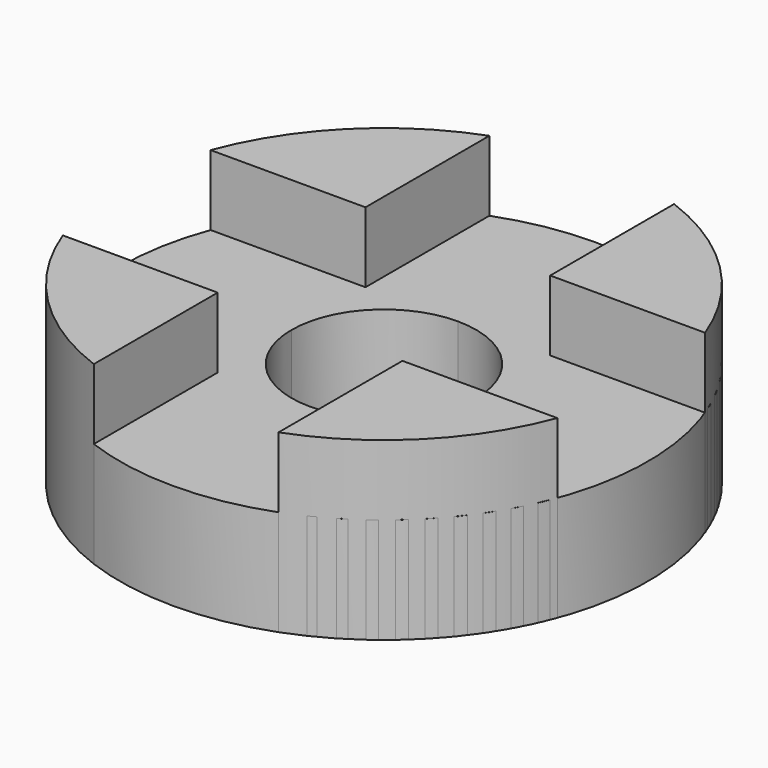
from build123d import *

# Parameters (mm, degrees)
F1_DEPTH = 6
F2_DEPTH = 10


with BuildPart() as f1:
    # F0 (on Top) → F1 (new body)
    with BuildSketch(Plane.XY):
        with BuildLine():
            Line((5.25, 5.25), (14.0512454964, 5.25))
            ThreePointArc((14.0512454964, 5.25), (10.6066017178, 10.6066017178), (5.25, 14.0512454964))
            Line((5.25, 14.0512454964), (5.25, 5.25))
        make_face()
        with BuildLine():
            Line((5.25, 5.25), (5.25, 14.0512454964))
            ThreePointArc((5.25, 14.0512454964), (0, 15), (-5.25, 14.0512454964))
            Line((-5.25, 14.0512454964), (-5.25, 5.25))
            Line((-5.25, 5.25), (1.7e-09, 5.25))
            Line((1.7e-09, 5.25), (5.25, 5.25))
        make_face()
        with BuildLine():
            Line((-5.25, 5.25), (-5.25, 14.0512454964))
            ThreePointArc((-5.25, 14.0512454964), (-10.6066017178, 10.6066017178), (-14.0512454964, 5.25))
            Line((-14.0512454964, 5.25), (-5.25, 5.25))
        make_face()
        with BuildLine():
            Line((-5.25, 5.25), (-14.0512454964, 5.25))
            ThreePointArc((-14.0512454964, 5.25), (-15, 0), (-14.0512454964, -5.25))
            Line((-14.0512454964, -5.25), (-5.25, -5.25))
            Line((-5.25, -5.25), (-5.25, -4.1e-09))
            Line((-5.25, -4.1e-09), (-5.25, 5.25))
        make_face()
        with BuildLine():
            ThreePointArc((-14.0512454964, -5.25), (-10.6066017178, -10.6066017178), (-5.25, -14.0512454964))
            Line((-5.25, -14.0512454964), (-5.25, -5.25))
            Line((-5.25, -5.25), (-14.0512454964, -5.25))
        make_face()
        with BuildLine():
            ThreePointArc((-5.25, -14.0512454964), (0, -15), (5.25, -14.0512454964))
            Line((5.25, -14.0512454964), (5.25, -5.25))
            Line((5.25, -5.25), (0, -5.25))
            Line((0, -5.25), (-5.25, -5.25))
            Line((-5.25, -5.25), (-5.25, -14.0512454964))
        make_face()
        with BuildLine():
            ThreePointArc((5.25, -14.0512454964), (10.6066017178, -10.6066017178), (14.0512454964, -5.25))
            Line((14.0512454964, -5.25), (5.25, -5.25))
            Line((5.25, -5.25), (5.25, -14.0512454964))
        make_face()
        with BuildLine():
            ThreePointArc((14.0512454964, -5.25), (14.7609058402, -2.6675192177), (15, 0))
            ThreePointArc((15, 0), (14.7609058402, 2.6675192177), (14.0512454964, 5.25))
            Line((14.0512454964, 5.25), (5.25, 5.25))
            Line((5.25, 5.25), (5.25, 0))
            Line((5.25, 0), (5.25, -5.25))
            Line((5.25, -5.25), (14.0512454964, -5.25))
        make_face()
        with BuildLine():
            Line((-5.25, 5.25), (-14.0512454964, 5.25))
            ThreePointArc((-14.0512454964, 5.25), (-15, 0), (-14.0512454964, -5.25))
            Line((-14.0512454964, -5.25), (-5.25, -5.25))
            Line((-5.25, -5.25), (-5.25, -4.1e-09))
            Line((-5.25, -4.1e-09), (-5.25, 5.25))
        make_face()
        with BuildLine():
            ThreePointArc((-5.25, -14.0512454964), (0, -15), (5.25, -14.0512454964))
            Line((5.25, -14.0512454964), (5.25, -5.25))
            Line((5.25, -5.25), (0, -5.25))
            Line((0, -5.25), (-5.25, -5.25))
            Line((-5.25, -5.25), (-5.25, -14.0512454964))
        make_face()
        with BuildLine():
            ThreePointArc((14.0512454964, -5.25), (14.7609058402, -2.6675192177), (15, 0))
            ThreePointArc((15, 0), (14.7609058402, 2.6675192177), (14.0512454964, 5.25))
            Line((14.0512454964, 5.25), (5.25, 5.25))
            Line((5.25, 5.25), (5.25, 0))
            Line((5.25, 0), (5.25, -5.25))
            Line((5.25, -5.25), (14.0512454964, -5.25))
        make_face()
        with BuildLine():
            Line((5.25, 5.25), (5.25, 14.0512454964))
            ThreePointArc((5.25, 14.0512454964), (0, 15), (-5.25, 14.0512454964))
            Line((-5.25, 14.0512454964), (-5.25, 5.25))
            Line((-5.25, 5.25), (1.7e-09, 5.25))
            Line((1.7e-09, 5.25), (5.25, 5.25))
        make_face()
        with BuildLine():
            Line((5.25, 0), (5.25, 5.25))
            Line((5.25, 5.25), (1.7e-09, 5.25))
            ThreePointArc((1.7e-09, 5.25), (3.7123106018, 3.7123106006), (5.25, 0))
        make_face()
        with BuildLine():
            ThreePointArc((-5.25, -4.1e-09), (-3.712310602, 3.7123106004), (1.7e-09, 5.25))
            Line((1.7e-09, 5.25), (-5.25, 5.25))
            Line((-5.25, 5.25), (-5.25, -4.1e-09))
        make_face()
        with BuildLine():
            Line((-5.25, -5.25), (0, -5.25))
            ThreePointArc((0, -5.25), (-3.7123105998, -3.7123106027), (-5.25, -4.1e-09))
            Line((-5.25, -4.1e-09), (-5.25, -5.25))
        make_face()
        with BuildLine():
            Line((0, -5.25), (5.25, -5.25))
            Line((5.25, -5.25), (5.25, 0))
            ThreePointArc((5.25, 0), (3.7123106012, -3.7123106012), (0, -5.25))
        make_face()
    extrude(amount=F1_DEPTH)


with BuildPart() as f2:
    # F0 (on Top) → F2 (new body)
    with BuildSketch(Plane.XY):
        with BuildLine():
            Line((-5.25, 5.25), (-5.25, 14.0512454964))
            ThreePointArc((-5.25, 14.0512454964), (-10.6066017178, 10.6066017178), (-14.0512454964, 5.25))
            Line((-14.0512454964, 5.25), (-5.25, 5.25))
        make_face()
    extrude(amount=F2_DEPTH)


with BuildPart() as f2b:
    # F0 (on Top) → F2, piece 2 (new body)
    with BuildSketch(Plane.XY):
        with BuildLine():
            ThreePointArc((-14.0512454964, -5.25), (-10.6066017178, -10.6066017178), (-5.25, -14.0512454964))
            Line((-5.25, -14.0512454964), (-5.25, -5.25))
            Line((-5.25, -5.25), (-14.0512454964, -5.25))
        make_face()
    extrude(amount=F2_DEPTH)


with BuildPart() as f2c:
    # F0 (on Top) → F2, piece 3 (new body)
    with BuildSketch(Plane.XY):
        with BuildLine():
            ThreePointArc((5.25, -14.0512454964), (10.6066017178, -10.6066017178), (14.0512454964, -5.25))
            Line((14.0512454964, -5.25), (5.25, -5.25))
            Line((5.25, -5.25), (5.25, -14.0512454964))
        make_face()
    extrude(amount=F2_DEPTH)


with BuildPart() as f2d:
    # F0 (on Top) → F2, piece 4 (new body)
    with BuildSketch(Plane.XY):
        with BuildLine():
            Line((5.25, 5.25), (14.0512454964, 5.25))
            ThreePointArc((14.0512454964, 5.25), (10.6066017178, 10.6066017178), (5.25, 14.0512454964))
            Line((5.25, 14.0512454964), (5.25, 5.25))
        make_face()
    extrude(amount=F2_DEPTH)


solid = Compound([f1.part, f2.part, f2b.part, f2c.part, f2d.part])
